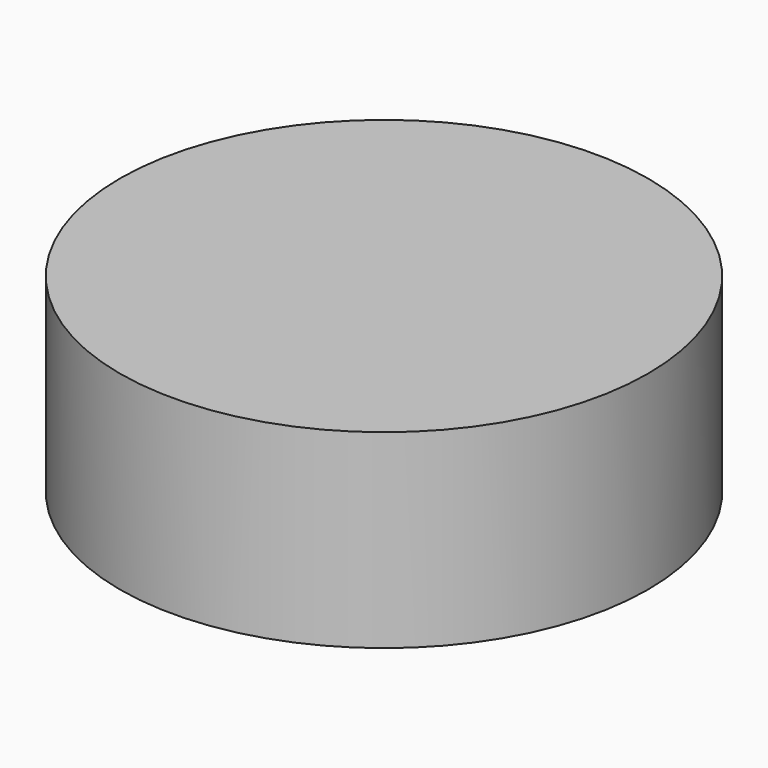
from build123d import *

# Parameters (mm, degrees)
CYLINDER_R     = 20.8407
CYLINDER_DEPTH = 15


with BuildPart() as part:
    # Cylinder → Cylinder (new body)
    with BuildSketch(Plane.XY.offset(-2.5)):
        Circle(CYLINDER_R)
    extrude(amount=CYLINDER_DEPTH)


solid = part.part
